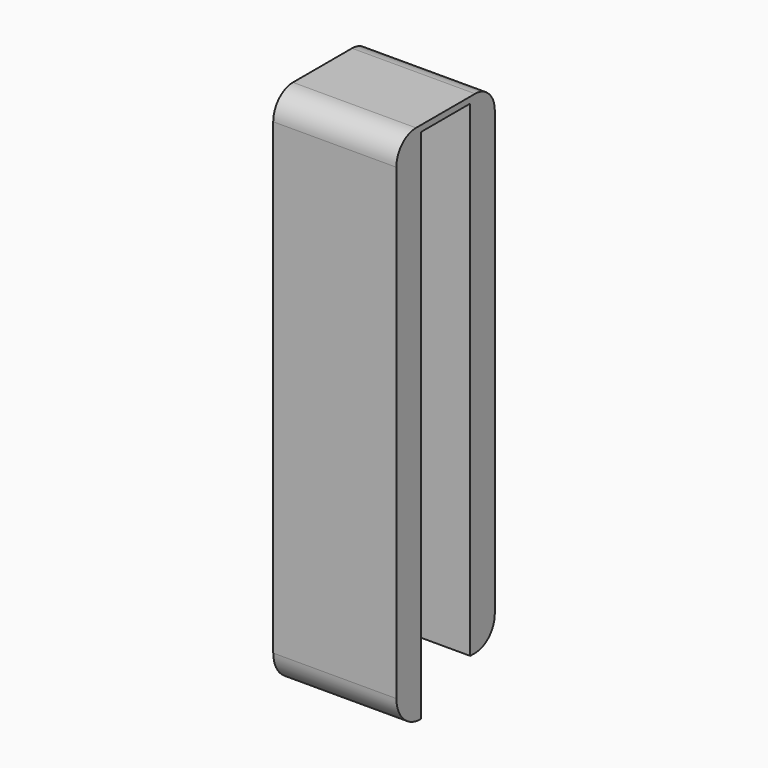
from build123d import *

# Parameters (mm, degrees)
F0_W     = 12.7
F0_H     = 1.27
F1_DEPTH = 12.7
F2_R     = 5.08


with BuildPart() as f1:
    # F0 (on Right) → F1 (new body, symmetric)
    with BuildSketch(Plane.YZ):
        with Locations((9.525, 50.165)):
            Rectangle(F0_W, F0_H)
        Polygon((3.175, -50.8), (3.175, 49.53), (3.175, 50.8), (-3.175, 50.8), (-3.175, -50.8), (-3.153914, -50.8), align=None)
        Polygon((15.875, -50.8), (22.225, -50.8), (22.225, 50.8), (15.875, 50.8), (15.875, 49.53), align=None)
        with BuildLine():
            Line((3.175, -57.128914), (3.175, -50.8))
            Line((3.175, -50.8), (-3.153914, -50.8))
            ThreePointArc((-3.153914, -50.8), (-1.300218, -55.275218), (3.175, -57.128914))
        make_face()
    extrude(amount=F1_DEPTH, both=True)

    # F2
    f2_edges = [f1.edges().sort_by_distance(p)[0] for p in [
        (0, 22.225, 50.8),
        (0, -3.175, 50.8),
        (0, 22.225, -50.8),
    ]]
    fillet(f2_edges, radius=F2_R)


solid = f1.part
